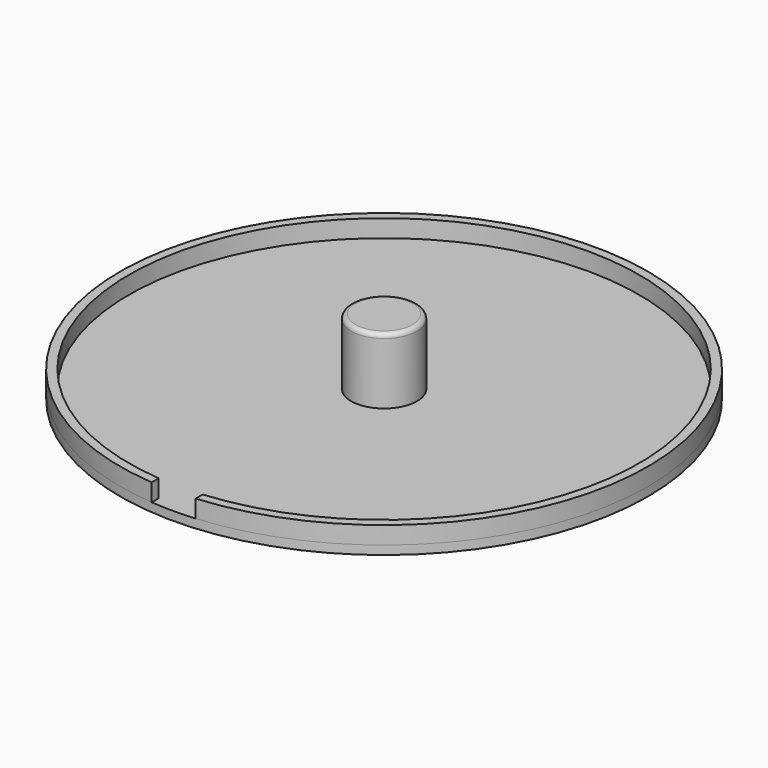
from build123d import *

# Parameters (mm, degrees)
SKETCH_R     = 60
PAD_DEPTH    = 2
PAD001_DEPTH = 5
SKETCH002_R  = 7.5
PAD002_DEPTH = 15
FILLET_R     = 1


with BuildPart() as part:
    # Sketch → Pad (new body)
    with BuildSketch(Plane.XY):
        Circle(SKETCH_R)
    extrude(amount=PAD_DEPTH)

    # Sketch001 → Pad001 (join)
    with BuildSketch(Plane.XY.offset(1)):
        with BuildLine():
            ThreePointArc((5, -57.784081), (0, 58), (-5, -57.784081))
            Line((-5, -57.784081), (-5, -59.791304))
            ThreePointArc((5, -59.791304), (0, 60), (-5, -59.791304))
            Line((5, -57.784081), (5, -59.791304))
        make_face()
    extrude(amount=PAD001_DEPTH)

    # Sketch002 (on Face4 of Pad001) → Pad002 (join)
    with BuildSketch(Plane.XY.offset(2)):
        Circle(SKETCH002_R)
    extrude(amount=PAD002_DEPTH)

    # Fillet
    fillet_edges = [part.edges().sort_by_distance(p)[0] for p in [
        (-7.5, 0, 17),
    ]]
    fillet(fillet_edges, radius=FILLET_R)


solid = part.part
